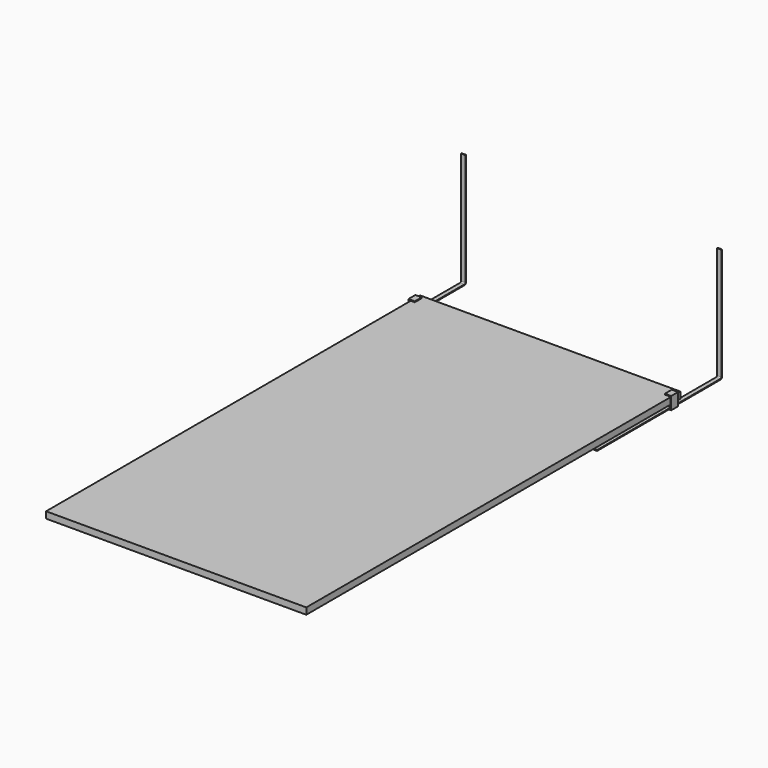
from build123d import *

# Parameters (mm, degrees)
F0_W      = 1525
F0_H      = 2740
F1_DEPTH  = 38.1
F5_DEPTH  = 25.4
F9_DEPTH  = 50.8
F10_R     = 2.5796875
F10_R_2   = 5.08
F11_DEPTH = 9.8435
F12_R     = 3.302
F12_R_2   = 5.08
F13_DEPTH = 668.4274


with BuildPart() as f1:
    # F0 (on Top) → F1 (new body)
    with BuildSketch(Plane.XY):
        Rectangle(F0_W, F0_H)
    extrude(amount=-F1_DEPTH)


with BuildPart() as f5:
    # F4 (on offset) → F5 (new body)
    with BuildSketch(Plane.YZ.offset(762.5)):
        with BuildLine():
            Line((1663.6875, -54.0639), (760.4, -54.0639))
            Line((760.4, -54.0639), (760.4, -58.8264))
            Line((760.4, -58.8264), (1663.6875, -58.8264))
            ThreePointArc((1663.6875, -58.8264), (1671.5452241059, -55.5716241059), (1674.8, -47.7139))
            Line((1674.8, -47.7139), (1674.8, 609.6))
            Line((1674.8, 609.6), (1670.0375, 609.6))
            Line((1670.0375, 609.6), (1670.0375, -47.7139))
            ThreePointArc((1670.0375, -47.7139), (1668.1776280605, -52.2040280605), (1663.6875, -54.0639))
        make_face()
    extrude(amount=-F5_DEPTH)


with BuildPart() as f6_1:
    # F6: instance of F5
    add(f5.part.mirror(Plane.YZ))


with BuildPart() as f9:
    # F8 (on offset) → F9 (new body)
    with BuildSketch(Plane(origin=(0, 1344.6, 0), x_dir=(-1, 0, 0), z_dir=(0, 1, 0))):
        Polygon((-766.7037, 5.08), (-732.8963, 5.08), (-732.8963, 10.16), (-769.8787, 10.16), (-769.8787, -63.9064), (-732.8963, -63.9064), (-732.8963, -58.8264), (-766.7037, -58.8264), align=None)
    extrude(amount=-F9_DEPTH)


with BuildPart() as f9b:
    # F8 (on offset) → F9, piece 2 (new body)
    with BuildSketch(Plane(origin=(0, 1344.6, 0), x_dir=(-1, 0, 0), z_dir=(0, 1, 0))):
        Polygon((766.7037, -58.8264), (732.8963, -58.8264), (732.8963, -63.9064), (769.8787, -63.9064), (769.8787, 10.16), (732.8963, 10.16), (732.8963, 5.08), (766.7037, 5.08), align=None)
    extrude(amount=-F9_DEPTH)


with BuildPart() as f11_tool:
    # F10 (on face) → F11 (new body, through all)
    with BuildSketch(Plane.XY.offset(-54.0639)):
        with Locations((749.8, 1335.075)):
            Circle(F10_R)
        with Locations((749.8, 1303.325)):
            Circle(F10_R)
        with Locations((749.8, 1319.2)):
            Circle(F10_R_2)
    extrude(amount=-F11_DEPTH)


with BuildPart() as f5_1:
    add(f5.part)

    # F11: cut by f11_tool
    add(f11_tool.part, mode=Mode.SUBTRACT)

    # F12 (on face) → F13 (cut, through all)
    with BuildSketch(Plane(origin=(0, 0, -58.8264), x_dir=(1, 0, 0), z_dir=(0, 0, -1))):
        with Locations((749.8, -1335.075)):
            Circle(F12_R)
        with Locations((749.8, -1303.325)):
            Circle(F12_R)
        with Locations((749.8, -1319.2)):
            Circle(F12_R_2)
    extrude(amount=-F13_DEPTH, mode=Mode.SUBTRACT)


with BuildPart() as f9_1:
    add(f9.part)

    # F11: cut by f11_tool
    add(f11_tool.part, mode=Mode.SUBTRACT)


solid = Compound([f1.part, f6_1.part, f9b.part, f5_1.part, f9_1.part])
